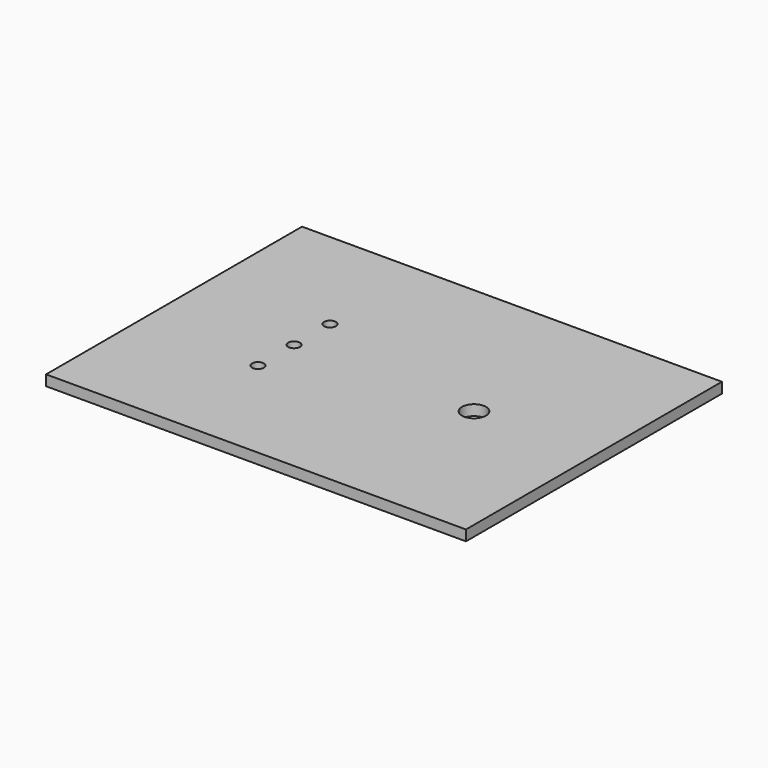
from build123d import *

# Parameters (mm, degrees)
F0_W     = 177.8
F0_H     = 135.466582
F0_R     = 2.5019
F0_R_2   = 5.08
F1_DEPTH = 4.445


with BuildPart() as f1:
    # F0 (on Top) → F1 (new body)
    with BuildSketch(Plane.XY):
        with Locations((88.9, 67.733291)):
            Rectangle(F0_W, F0_H)
        with Locations((50.8, 48.683291)):
            Circle(F0_R, mode=Mode.SUBTRACT)
        with Locations((50.8, 67.733291)):
            Circle(F0_R, mode=Mode.SUBTRACT)
        with Locations((50.8, 86.783291)):
            Circle(F0_R, mode=Mode.SUBTRACT)
        with Locations((127, 67.733291)):
            Circle(F0_R_2, mode=Mode.SUBTRACT)
    extrude(amount=F1_DEPTH)


solid = f1.part
